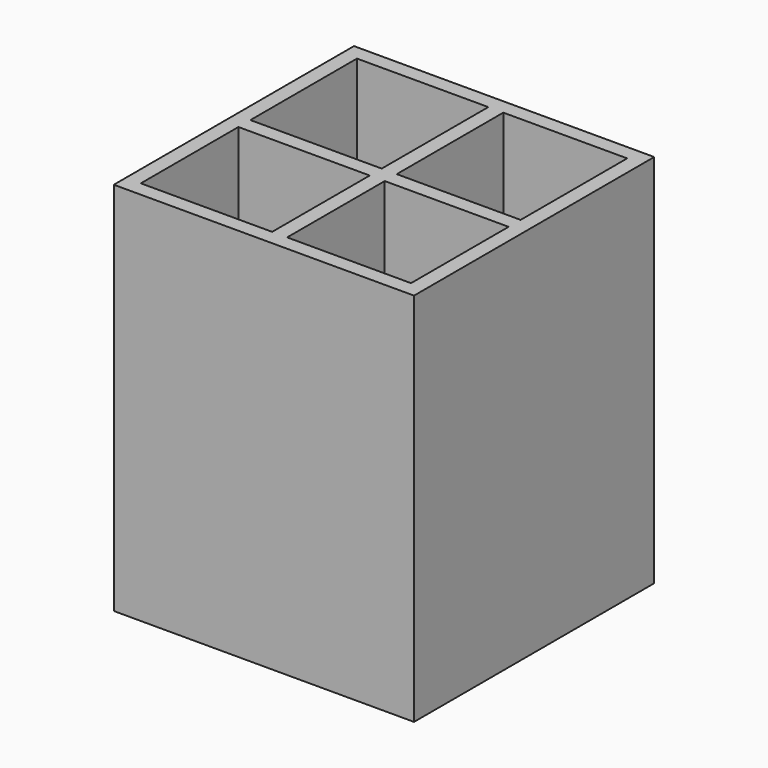
from build123d import *

# Parameters (mm, degrees)
F0_W     = 101.6
F0_H     = 101.6
F1_DEPTH = 127
F2_W     = 44.441131
F2_H     = 45.080575
F2_W_2   = 41.918869
F2_H_2   = 41.279425
F3_DEPTH = 121.92


with BuildPart() as f1:
    # F0 (on Top) → F1 (new body)
    with BuildSketch(Plane.XY):
        Rectangle(F0_W, F0_H)
    extrude(amount=F1_DEPTH)

    # F2 (on face) → F3 (cut)
    with BuildSketch(Plane.XY.offset(127)):
        with Locations((-23.499434, 23.179713)):
            Rectangle(F2_W, F2_H)
        with Locations((24.760565, 23.179713)):
            Rectangle(F2_W_2, F2_H)
        with Locations((24.760565, -25.080288)):
            Rectangle(F2_W_2, F2_H_2)
        with Locations((-23.499434, -25.080288)):
            Rectangle(F2_W, F2_H_2)
    extrude(amount=-F3_DEPTH, mode=Mode.SUBTRACT)


solid = f1.part
